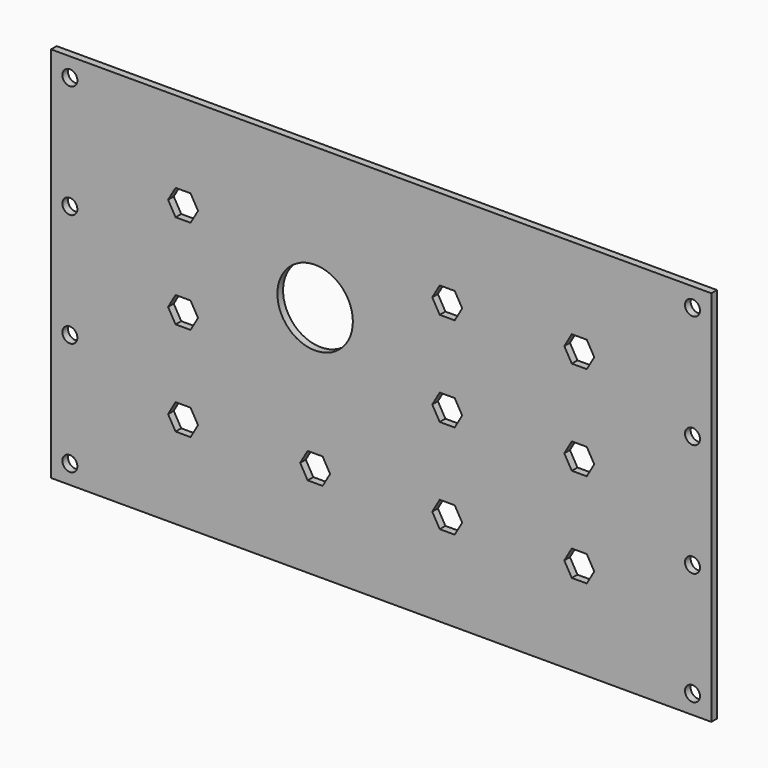
from build123d import *

# Parameters (mm, degrees)
F0_W     = 444.5
F0_H     = 254
F0_R     = 5.0419
F0_R_2   = 25.4
F1_DEPTH = 4.7625


with BuildPart() as f1:
    # F0 (on Front) → F1 (new body)
    with BuildSketch(Plane.XZ):
        Rectangle(F0_W, F0_H)
        with Locations((-209.55, -114.3)):
            Circle(F0_R, mode=Mode.SUBTRACT)
        with Locations((-209.55, -38.1)):
            Circle(F0_R, mode=Mode.SUBTRACT)
        Polygon((-143.424647, -63.5), (-138.387323, -54.7751), (-128.312677, -54.7751), (-123.275353, -63.5), (-128.312677, -72.2249), (-138.387323, -72.2249), align=None, mode=Mode.SUBTRACT)
        Polygon((-54.524647, -63.5), (-49.487323, -54.7751), (-39.412677, -54.7751), (-34.375353, -63.5), (-39.412677, -72.2249), (-49.487323, -72.2249), align=None, mode=Mode.SUBTRACT)
        with Locations((209.55, -114.3)):
            Circle(F0_R, mode=Mode.SUBTRACT)
        Polygon((34.375353, -63.5), (39.412677, -54.7751), (49.487323, -54.7751), (54.524647, -63.5), (49.487323, -72.2249), (39.412677, -72.2249), align=None, mode=Mode.SUBTRACT)
        Polygon((123.275353, -63.5), (128.312677, -54.7751), (138.387323, -54.7751), (143.424647, -63.5), (138.387323, -72.2249), (128.312677, -72.2249), align=None, mode=Mode.SUBTRACT)
        with Locations((209.55, -38.1)):
            Circle(F0_R, mode=Mode.SUBTRACT)
        Polygon((-143.424647, 0), (-138.387323, 8.7249), (-128.312677, 8.7249), (-123.275353, 0), (-128.312677, -8.7249), (-138.387323, -8.7249), align=None, mode=Mode.SUBTRACT)
        with Locations((-209.55, 38.1)):
            Circle(F0_R, mode=Mode.SUBTRACT)
        with Locations((-44.45, 31.75)):
            Circle(F0_R_2, mode=Mode.SUBTRACT)
        Polygon((-143.424647, 63.5), (-138.387323, 72.2249), (-128.312677, 72.2249), (-123.275353, 63.5), (-128.312677, 54.7751), (-138.387323, 54.7751), align=None, mode=Mode.SUBTRACT)
        with Locations((-209.55, 114.3)):
            Circle(F0_R, mode=Mode.SUBTRACT)
        Polygon((34.375353, 0), (39.412677, 8.7249), (49.487323, 8.7249), (54.524647, 0), (49.487323, -8.7249), (39.412677, -8.7249), align=None, mode=Mode.SUBTRACT)
        Polygon((123.275353, 0), (128.312677, 8.7249), (138.387323, 8.7249), (143.424647, 0), (138.387323, -8.7249), (128.312677, -8.7249), align=None, mode=Mode.SUBTRACT)
        with Locations((209.55, 38.1)):
            Circle(F0_R, mode=Mode.SUBTRACT)
        Polygon((34.375353, 63.5), (39.412677, 72.2249), (49.487323, 72.2249), (54.524647, 63.5), (49.487323, 54.7751), (39.412677, 54.7751), align=None, mode=Mode.SUBTRACT)
        Polygon((123.275353, 63.5), (128.312677, 72.2249), (138.387323, 72.2249), (143.424647, 63.5), (138.387323, 54.7751), (128.312677, 54.7751), align=None, mode=Mode.SUBTRACT)
        with Locations((209.55, 114.3)):
            Circle(F0_R, mode=Mode.SUBTRACT)
    extrude(amount=F1_DEPTH)


solid = f1.part
